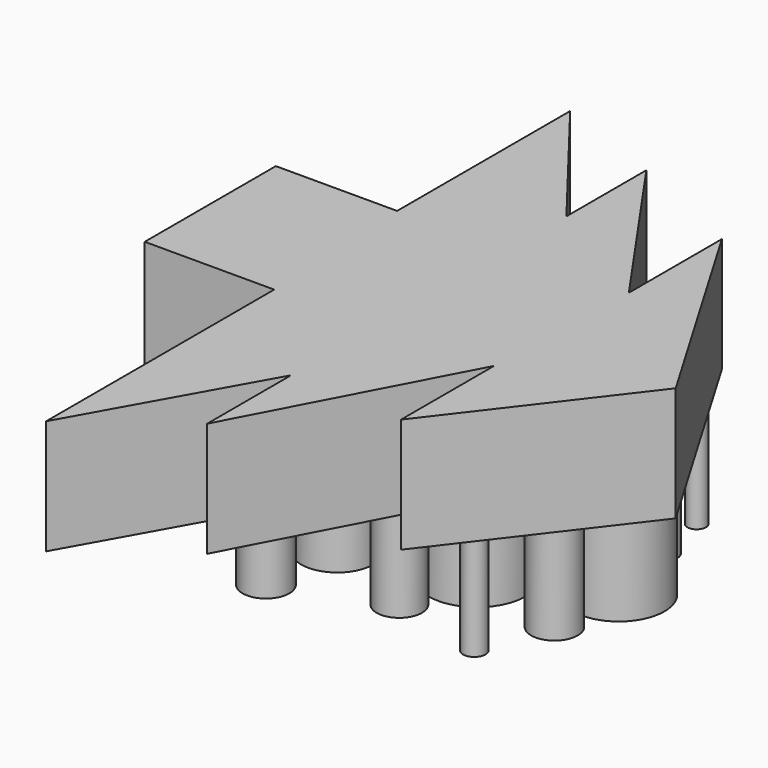
from build123d import *

# Parameters (mm, degrees)
F1_DEPTH = 25
F2_R     = 5.032674
F2_R_2   = 6.046328
F2_R_3   = 2.444084
F2_R_4   = 5.214553
F2_R_5   = 4.946477
F2_R_6   = 9.989097
F2_R_7   = 10.583754
F2_R_8   = 5.098711
F2_R_9   = 7.88193
F2_R_10  = 8.514395
F2_R_11  = 5.084635
F2_R_12  = 7.306134
F2_R_13  = 3.940966
F2_R_14  = 3.152772
F2_R_15  = 2.015443
F3_DEPTH = 25


with BuildPart() as f1:
    # F0 (on Top) → F1 (new body)
    with BuildSketch(Plane.XY):
        Polygon((24.859251, -43.995507), (54.189581, -5.723), (25.932312, 42.207055), (25.932312, 16.811278), (0, 54.01073), (0, 32.191824), (-23.786178, 62.952906), (-23.786178, 15.738217), (-50.255015, 15.738217), (-50.255015, -20.030478), (-21.997744, -20.030478), (-21.997744, -82.268015), (0, -42.922445), (0, -65.814413), (24.859251, -18.59973), align=None)
    extrude(amount=F1_DEPTH)


with BuildPart() as f3:
    # F2 (on Top) → F3 (new body)
    with BuildSketch(Plane.XY):
        with Locations((-42.574011, -8.90974)):
            Circle(F2_R)
        with Locations((-13.499485, 30.002031)):
            Circle(F2_R_2)
        with Locations((27.816946, -27.70981)):
            Circle(F2_R_3)
        with Locations((-18.527411, 45.741625)):
            Circle(F2_R_4)
        with Locations((7.268033, -22.463277)):
            Circle(F2_R_5)
        with Locations((34.156505, 3.769376)):
            Circle(F2_R_6)
        with Locations((11.640143, -6.723685)):
            Circle(F2_R_7)
        with Locations((-15.029724, -30.988893)):
            Circle(F2_R_8)
        with Locations((-13.280881, -13.71906)):
            Circle(F2_R_9)
        with Locations((-36.234453, 7.048458)):
            Circle(F2_R_10)
        with Locations((33.063475, -12.407427)):
            Circle(F2_R_11)
        with Locations((4.863372, 13.388017)):
            Circle(F2_R_12)
        with Locations((8.79827, 28.6904)):
            Circle(F2_R_13)
        with Locations((30.440209, 20.38339)):
            Circle(F2_R_14)
        with Locations((28.254159, 32.406691)):
            Circle(F2_R_15)
    extrude(amount=-F3_DEPTH)


solid = Compound([f1.part, f3.part])
